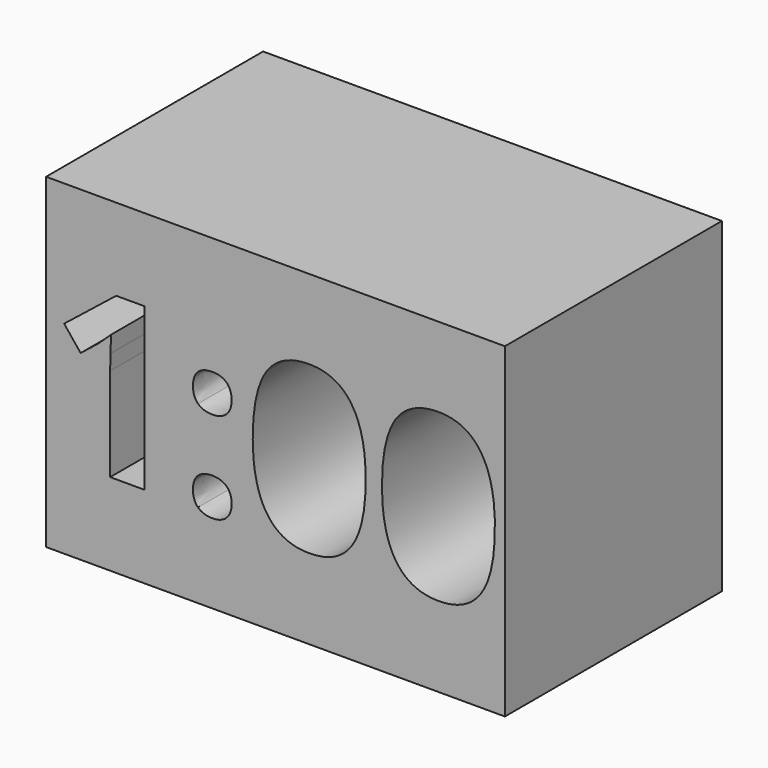
from build123d import *

# Parameters (mm, degrees)
F0_W     = 4.2962920794
F0_H     = 3.0525501352
F1_DEPTH = 2.54


with BuildPart() as f1:
    # F0 (on Front) → F1 (new body)
    with BuildSketch(Plane.XZ):
        with Locations((2.1481460397, -1.5262750676)):
            Rectangle(F0_W, F0_H)
        with BuildLine():
            add(Edge.make_bspline(
                [(1.4228043145, -2.2628376538), (1.3752738301, -2.2167976723), (1.3752738301, -2.1329982817)],
                knots=[0, 0, 0, 1, 1, 1], degree=2))
            add(Edge.make_bspline(
                [(1.3752738301, -2.1329982817), (1.3752738301, -2.0462178851), (1.4218106459, -2.0016684066)],
                knots=[0, 0, 0, 1, 1, 1], degree=2))
            add(Edge.make_bspline(
                [(1.4218106459, -2.0016684066), (1.4683474616, -1.9571189282), (1.5574464185, -1.9571189282)],
                knots=[0, 0, 0, 1, 1, 1], degree=2))
            add(Edge.make_bspline(
                [(1.5574464185, -1.9571189282), (1.6432331464, -1.9571189282), (1.6902667965, -2.0026620753)],
                knots=[0, 0, 0, 1, 1, 1], degree=2))
            add(Edge.make_bspline(
                [(1.6902667965, -2.0026620753), (1.7373004466, -2.0482052224), (1.7373004466, -2.1329982817)],
                knots=[0, 0, 0, 1, 1, 1], degree=2))
            add(Edge.make_bspline(
                [(1.7373004466, -2.1329982817), (1.7373004466, -2.214810335), (1.6897699622, -2.2618439851)],
                knots=[0, 0, 0, 1, 1, 1], degree=2))
            add(Edge.make_bspline(
                [(1.6897699622, -2.2618439851), (1.6422394778, -2.3088776352), (1.5574464185, -2.3088776352)],
                knots=[0, 0, 0, 1, 1, 1], degree=2))
            add(Edge.make_bspline(
                [(1.5574464185, -2.3088776352), (1.4703347989, -2.3088776352), (1.4228043145, -2.2628376538)],
                knots=[0, 0, 0, 1, 1, 1], degree=2))
        make_face(mode=Mode.SUBTRACT)
        with BuildLine():
            Line((0.9198423592, -0.7676975376), (0.9198423592, -2.2810549126))
            Line((0.9198423592, -2.2810549126), (0.5998810495, -2.2810549126))
            Line((0.5998810495, -2.2810549126), (0.5998810495, -1.4053015969))
            Line((0.5998810495, -1.4053015969), (0.6031932783, -1.2615508635))
            Line((0.6031932783, -1.2615508635), (0.6081616217, -1.1042199918))
            add(Edge.make_bspline(
                [(0.6081616217, -1.1042199918), (0.5286681286, -1.1837134849), (0.4975331771, -1.2085552015)],
                knots=[0, 0, 0, 1, 1, 1], degree=2))
            Line((0.4975331771, -1.2085552015), (0.3236411609, -1.3483312602))
            Line((0.3236411609, -1.3483312602), (0.1692912952, -1.1558907623))
            Line((0.1692912952, -1.1558907623), (0.6568513862, -0.7676975376))
            Line((0.6568513862, -0.7676975376), (0.9198423592, -0.7676975376))
        make_face(mode=Mode.SUBTRACT)
        with BuildLine():
            add(Edge.make_bspline(
                [(1.4228043145, -1.4084482143), (1.3752738301, -1.3629050673), (1.3752738301, -1.2781120079)],
                knots=[0, 0, 0, 1, 1, 1], degree=2))
            add(Edge.make_bspline(
                [(1.3752738301, -1.2781120079), (1.3752738301, -1.1910003884), (1.4218106459, -1.1466165214)],
                knots=[0, 0, 0, 1, 1, 1], degree=2))
            add(Edge.make_bspline(
                [(1.4218106459, -1.1466165214), (1.4683474616, -1.1022326545), (1.5574464185, -1.1022326545)],
                knots=[0, 0, 0, 1, 1, 1], degree=2))
            add(Edge.make_bspline(
                [(1.5574464185, -1.1022326545), (1.6432331464, -1.1022326545), (1.6902667965, -1.1477758015)],
                knots=[0, 0, 0, 1, 1, 1], degree=2))
            add(Edge.make_bspline(
                [(1.6902667965, -1.1477758015), (1.7373004466, -1.1933189486), (1.7373004466, -1.2781120079)],
                knots=[0, 0, 0, 1, 1, 1], degree=2))
            add(Edge.make_bspline(
                [(1.7373004466, -1.2781120079), (1.7373004466, -1.3619113986), (1.6892731279, -1.40795138)],
                knots=[0, 0, 0, 1, 1, 1], degree=2))
            add(Edge.make_bspline(
                [(1.6892731279, -1.40795138), (1.6412458091, -1.4539913614), (1.5574464185, -1.4539913614)],
                knots=[0, 0, 0, 1, 1, 1], degree=2))
            add(Edge.make_bspline(
                [(1.5574464185, -1.4539913614), (1.4703347989, -1.4539913614), (1.4228043145, -1.4084482143)],
                knots=[0, 0, 0, 1, 1, 1], degree=2))
        make_face(mode=Mode.SUBTRACT)
        with BuildLine():
            add(Edge.make_bspline(
                [(2.8589867566, -0.9425832225), (2.9929664148, -1.1413169552), (2.9929664148, -1.5245418366)],
                knots=[0, 0, 0, 1, 1, 1], degree=2))
            add(Edge.make_bspline(
                [(2.9929664148, -1.5245418366), (2.9929664148, -1.9206844105), (2.8631270427, -2.1113031825)],
                knots=[0, 0, 0, 1, 1, 1], degree=2))
            add(Edge.make_bspline(
                [(2.8631270427, -2.1113031825), (2.7332876706, -2.3019219545), (2.4630097941, -2.3019219545)],
                knots=[0, 0, 0, 1, 1, 1], degree=2))
            add(Edge.make_bspline(
                [(2.4630097941, -2.3019219545), (2.2010124897, -2.3019219545), (2.0680265002, -2.1051755591)],
                knots=[0, 0, 0, 1, 1, 1], degree=2))
            add(Edge.make_bspline(
                [(2.0680265002, -2.1051755591), (1.9350405107, -1.9084291637), (1.9350405107, -1.5245418366)],
                knots=[0, 0, 0, 1, 1, 1], degree=2))
            add(Edge.make_bspline(
                [(1.9350405107, -1.5245418366), (1.9350405107, -1.1237621422), (2.0645486599, -0.9338058159)],
                knots=[0, 0, 0, 1, 1, 1], degree=2))
            add(Edge.make_bspline(
                [(2.0645486599, -0.9338058159), (2.1940568091, -0.7438494897), (2.4630097941, -0.7438494897)],
                knots=[0, 0, 0, 1, 1, 1], degree=2))
            add(Edge.make_bspline(
                [(2.4630097941, -0.7438494897), (2.7250070984, -0.7438494897), (2.8589867566, -0.9425832225)],
                knots=[0, 0, 0, 1, 1, 1], degree=2))
        make_face(mode=Mode.SUBTRACT)
        with BuildLine():
            add(Edge.make_bspline(
                [(4.0689439662, -0.9425832225), (4.2029236244, -1.1413169552), (4.2029236244, -1.5245418366)],
                knots=[0, 0, 0, 1, 1, 1], degree=2))
            add(Edge.make_bspline(
                [(4.2029236244, -1.5245418366), (4.2029236244, -1.9206844105), (4.0730842523, -2.1113031825)],
                knots=[0, 0, 0, 1, 1, 1], degree=2))
            add(Edge.make_bspline(
                [(4.0730842523, -2.1113031825), (3.9432448802, -2.3019219545), (3.6729670037, -2.3019219545)],
                knots=[0, 0, 0, 1, 1, 1], degree=2))
            add(Edge.make_bspline(
                [(3.6729670037, -2.3019219545), (3.4109696993, -2.3019219545), (3.2779837098, -2.1051755591)],
                knots=[0, 0, 0, 1, 1, 1], degree=2))
            add(Edge.make_bspline(
                [(3.2779837098, -2.1051755591), (3.1449977203, -1.9084291637), (3.1449977203, -1.5245418366)],
                knots=[0, 0, 0, 1, 1, 1], degree=2))
            add(Edge.make_bspline(
                [(3.1449977203, -1.5245418366), (3.1449977203, -1.1237621422), (3.2745058695, -0.9338058159)],
                knots=[0, 0, 0, 1, 1, 1], degree=2))
            add(Edge.make_bspline(
                [(3.2745058695, -0.9338058159), (3.4040140187, -0.7438494897), (3.6729670037, -0.7438494897)],
                knots=[0, 0, 0, 1, 1, 1], degree=2))
            add(Edge.make_bspline(
                [(3.6729670037, -0.7438494897), (3.934964308, -0.7438494897), (4.0689439662, -0.9425832225)],
                knots=[0, 0, 0, 1, 1, 1], degree=2))
        make_face(mode=Mode.SUBTRACT)
    extrude(amount=F1_DEPTH)


solid = f1.part
